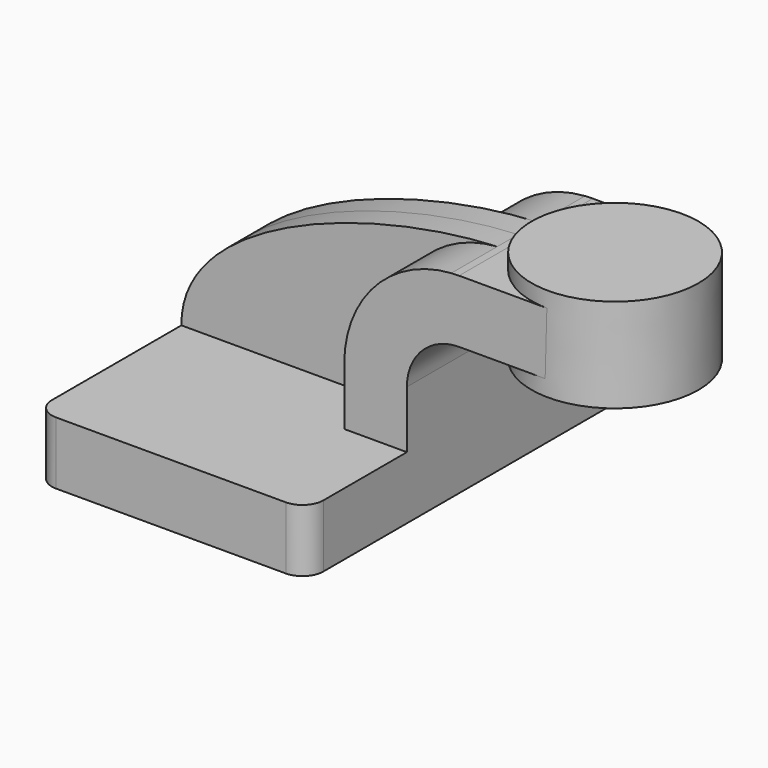
from build123d import *

# Parameters (mm, degrees)
F1_DEPTH = 63.5
F0_W     = 25.3799454411
F0_H     = 19.05
F2_DEPTH = 25.4
F3_DEPTH = 7.9375
F5_R     = 6.35


with BuildPart() as f1:
    # F0 (on Front) → F1 (new body, symmetric)
    with BuildSketch(Plane.XZ):
        Polygon((41.275, -9.525), (41.275, 9.525), (22.225, 9.525), (-41.275, 9.525), (-41.275, -9.525), align=None)
    extrude(amount=F1_DEPTH, both=True)

    # F0 (on Front) → F2 (join, symmetric)
    with BuildSketch(Plane.XZ):
        with BuildLine():
            Line((22.225, 9.525), (41.275, 9.525))
            Line((41.275, 9.525), (41.275, 27.0002))
            ThreePointArc((41.275, 27.0002), (45.9246798487, 38.2255201513), (57.15, 42.8752))
            Line((57.15, 42.8752), (58.853423, 42.8752))
            Line((58.853423, 42.8752), (58.853423, 61.9252))
            Line((58.853423, 61.9252), (57.15, 61.9252))
            add(Edge.make_bspline(
                [(54.7810867094, 61.8447673645), (55.5787107168, 61.8791484879), (56.3685670715, 61.9059785826), (57.15, 61.9252)],
                knots=[109.2664103078, 109.2664103078, 109.2664103078, 109.2664103078, 111.5045361635, 111.5045361635, 111.5045361635, 111.5045361635], degree=3))
            ThreePointArc((54.7810867094, 61.8447673645), (31.6304984211, 50.8436616648), (22.225, 27.0002))
            Line((22.225, 27.0002), (22.225, 9.525))
        make_face()
        with Locations((71.5433957206, 52.4002)):
            Rectangle(F0_W, F0_H)
    extrude(amount=F2_DEPTH, both=True)

    # F0 (on Front) → F3 (join, symmetric)
    with BuildSketch(Plane.XZ):
        with BuildLine():
            Line((-41.275, 9.525), (22.225, 9.525))
            Line((22.225, 9.525), (22.225, 27.0002))
            ThreePointArc((22.225, 27.0002), (31.6304984211, 50.8436616648), (54.7810867094, 61.8447673645))
            add(Edge.make_bspline(
                [(-41.275, 9.525), (-41.6134486644, 40.4903317988), (15.8406885003, 60.1662639324), (54.7810867094, 61.8447673645)],
                knots=[0, 0, 0, 0, 109.2664103078, 109.2664103078, 109.2664103078, 109.2664103078], degree=3))
        make_face()
    extrude(amount=F3_DEPTH, both=True)

    # F0 (on Front) → F4 (revolve)
    with BuildSketch(Plane.XZ):
        Polygon((84.253423, 66.675), (84.2333684411, 38.1), (109.653423, 38.1), (109.653423, 66.675), align=None)
    revolve(axis=Axis((84.2433957206, 0, 52.3875), (-0.0007018217, 0, -0.9999997537)))

    # F5
    f5_edges = [f1.edges().sort_by_distance(p)[0] for p in [
        (41.275, -63.5, 0),
        (41.275, 63.5, 0),
        (-41.275, 63.5, 0),
        (-41.275, -63.5, 0),
    ]]
    fillet(f5_edges, radius=F5_R)


solid = f1.part
